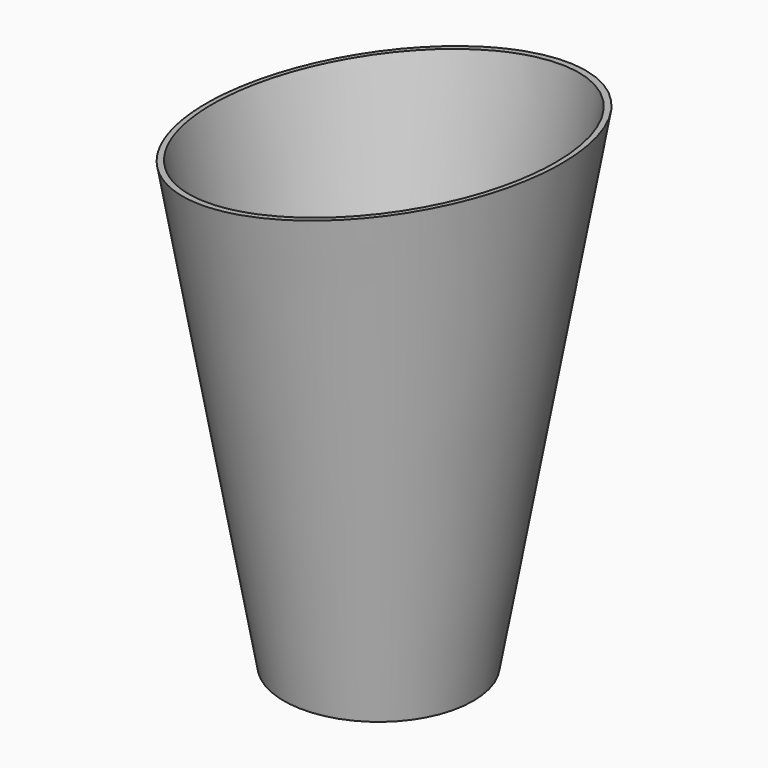
from build123d import *

# Parameters (mm, degrees)
BOX_W           = 200
BOX_H           = 199
BOX_DEPTH       = 200
BOX_PITCH_ANGLE = -10


with BuildPart() as cube:
    # Box → Box (new body)
    with BuildSketch(Plane.XY):
        with Locations((100, 99.5)):
            Rectangle(BOX_W, BOX_H)
    extrude(amount=BOX_DEPTH)


with BuildPart() as cube_1:
    # Box pitch: moved
    add(cube.part.rotate(Axis((0, 0, 0), (0, 1, 0)), BOX_PITCH_ANGLE))


with BuildPart() as cube_2:
    # Box placement: moved
    add(cube_1.part.moved(Location((-95, -94, 142))))


with BuildPart() as side_shade_64mm_base:
    # Sketch → Revolution (revolve)
    with BuildSketch(Plane.XZ):
        Polygon((32, 0), (61.975587, 170), (59.975587, 170), (30, 0), align=None)
    revolve(axis=Axis((0, 0, 0), (0, 0, 1)))

    # Cut: cut Cube
    add(cube_2.part, mode=Mode.SUBTRACT)


solid = side_shade_64mm_base.part
